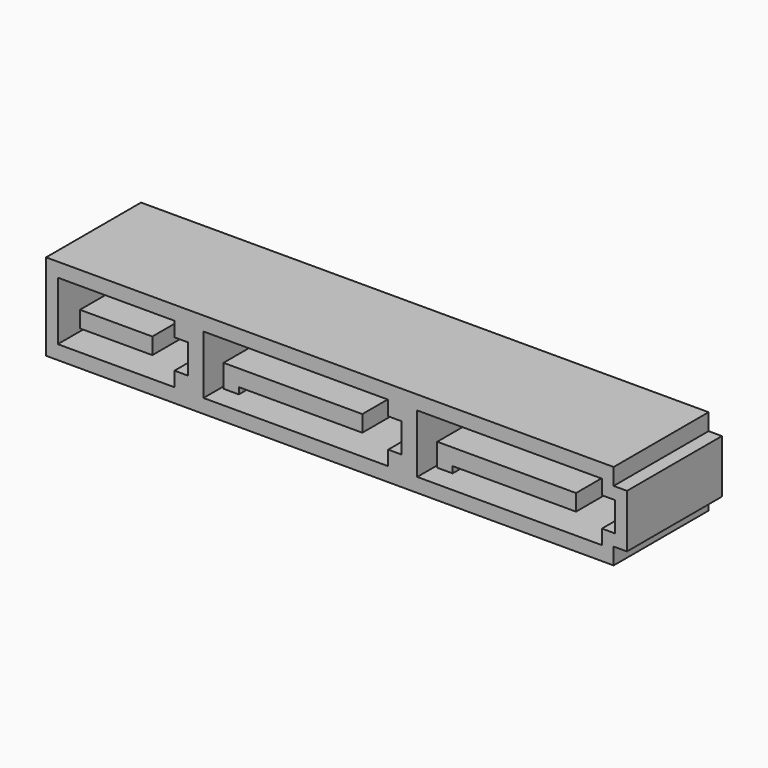
from build123d import *

# Parameters (mm, degrees)
F1_DEPTH = 4.45
F2_W     = 5.43
F2_H     = 1.23
F3_DEPTH = 5.4


with BuildPart() as f1:
    # F0 (on Front) → F1 (new body, symmetric)
    with BuildSketch(Plane.XZ):
        Polygon((-21.78, 6.5), (-21.78, 0), (20.78, 0), (20.78, 1.25), (21.78, 1.25), (21.78, 5.25), (20.78, 5.25), (20.78, 6.5), align=None)
    extrude(amount=F1_DEPTH, both=True)

    # F2 (on face) → F3 (cut)
    with BuildSketch(Plane.XZ.offset(4.45)):
        Polygon((19.901, 4.35), (19.901, 5.445), (6.051, 5.445), (6.051, 1.055), (19.901, 1.055), (19.901, 2.15), (20.901, 2.15), (20.901, 4.35), align=None)
        Polygon((7.551, 2.15), (7.551, 3.865), (17.961, 3.865), (17.961, 2.635), (8.701, 2.635), (8.701, 2.15), align=None, mode=Mode.SUBTRACT)
        Polygon((-12.151, 5.445), (-20.901, 5.445), (-20.901, 1.055), (-12.151, 1.055), (-12.151, 2.15), (-11.151, 2.15), (-11.151, 4.35), (-12.151, 4.35), align=None)
        with Locations((-16.526, 3.25)):
            Rectangle(F2_W, F2_H, mode=Mode.SUBTRACT)
        Polygon((3.875, 5.445), (-9.975, 5.445), (-9.975, 1.055), (3.875, 1.055), (3.875, 2.15), (4.875, 2.15), (4.875, 4.35), (3.875, 4.35), align=None)
        Polygon((-8.475, 2.15), (-8.475, 3.865), (1.935, 3.865), (1.935, 2.635), (-7.325, 2.635), (-7.325, 2.15), align=None, mode=Mode.SUBTRACT)
    extrude(amount=-F3_DEPTH, mode=Mode.SUBTRACT)


solid = f1.part
